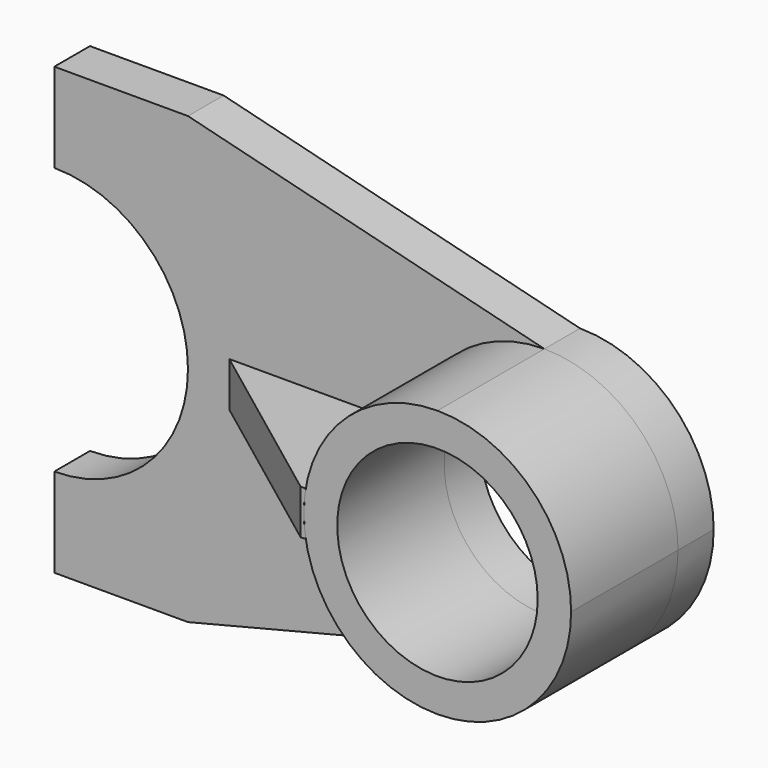
from build123d import *

# Parameters (mm, degrees)
F0_R     = 22.5
F1_DEPTH = 40
F2_DEPTH = 10
F4_DEPTH = 5


with BuildPart() as f1:
    # F0 (on Front) → F1 (new body)
    with BuildSketch(Plane.XZ):
        with BuildLine():
            ThreePointArc((30, 0), (21.213203, 21.213203), (0, 30))
            ThreePointArc((0, 30), (-30, 0), (0, -30))
            ThreePointArc((0, -30), (21.213203, -21.213203), (30, 0))
        make_face()
        Circle(F0_R, mode=Mode.SUBTRACT)
    extrude(amount=F1_DEPTH)


with BuildPart() as f2:
    # F0 (on Front) → F2 (new body)
    with BuildSketch(Plane.XZ):
        with BuildLine():
            Line((0, 30), (-80, 50))
            Line((-80, 50), (-110, 50))
            Line((-110, 50), (-110, 30))
            ThreePointArc((-110, 30), (-80, 0), (-110, -30))
            Line((-110, -30), (-110, -50))
            Line((-110, -50), (-80, -50))
            Line((-80, -50), (0, -30))
            ThreePointArc((0, -30), (-30, 0), (0, 30))
        make_face()
        with BuildLine():
            ThreePointArc((30, 0), (21.213203, 21.213203), (0, 30))
            ThreePointArc((0, 30), (-30, 0), (0, -30))
            ThreePointArc((0, -30), (21.213203, -21.213203), (30, 0))
        make_face()
        Circle(F0_R, mode=Mode.SUBTRACT)
    extrude(amount=F2_DEPTH)


with BuildPart() as f4:
    # F3 (on Top) → F4 (new body, symmetric)
    with BuildSketch(Plane.XY):
        Polygon((-70.729569, -10), (-30.729569, -40), (-28.729569, -40), (-28.729569, -10), align=None)
    extrude(amount=F4_DEPTH, both=True)

    # F5: cut F1
    add(f1.part, mode=Mode.SUBTRACT)


solid = Compound([f1.part, f2.part, f4.part])
